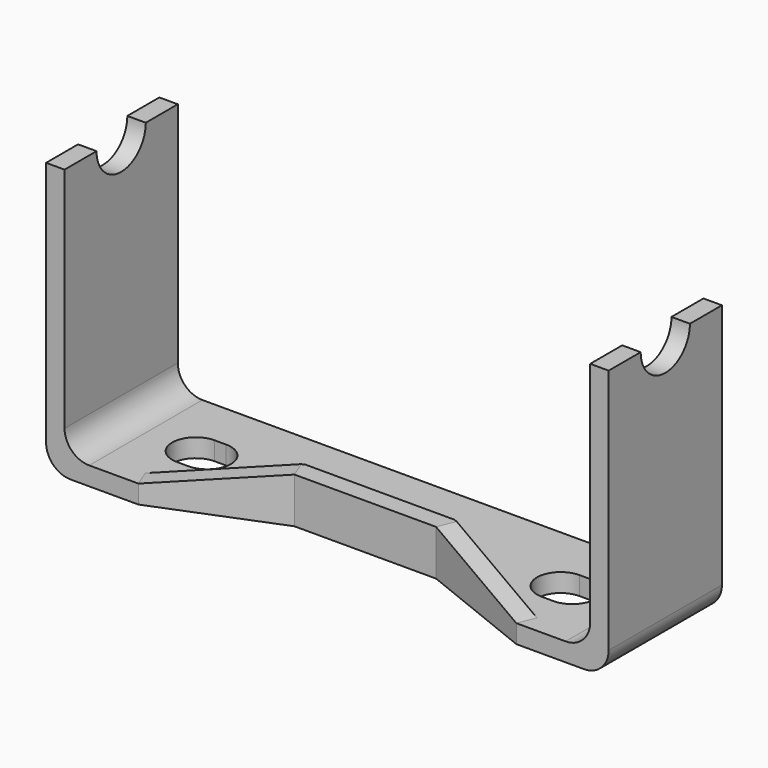
from build123d import *

# Parameters (mm, degrees)
F0_W      = 58.039
F0_H      = 14.605
F1_DEPTH  = 1.905
F2_W      = 1.905
F2_H      = 14.605
F3_DEPTH  = 26.035
F4_R      = 2.54
F6_DEPTH  = 58.04
F8_DEPTH  = 1.905
F10_DEPTH = 1.905
F12_DEPTH = 2.794
F14_DEPTH = 1.905
F16_DEPTH = 1.905


with BuildPart() as f1:
    # F0 (on Top) → F1 (new body)
    with BuildSketch(Plane.XY):
        Rectangle(F0_W, F0_H)
    extrude(amount=F1_DEPTH)

    # F2 (on face) → F3 (join)
    with BuildSketch(Plane.XY.offset(1.905)):
        with Locations((-28.067, 0)):
            Rectangle(F2_W, F2_H)
        with Locations((28.067, 0)):
            Rectangle(F2_W, F2_H)
    extrude(amount=F3_DEPTH)

    # F4
    f4_edges = [f1.edges().sort_by_distance(p)[0] for p in [
        (-29.0195, 0, 0),
        (29.0195, 0, 0),
        (27.1145, 0, 1.905),
        (-27.1145, 0, 1.905),
    ]]
    fillet(f4_edges, radius=F4_R)

    # F5 (on face) → F6 (cut, through all)
    with BuildSketch(Plane(origin=(-29.0195, 0, 0), x_dir=(0, -1, 0), z_dir=(-1, 0, 0))):
        with BuildLine():
            Line((3.175, 27.94), (-3.175, 27.94))
            ThreePointArc((-3.175, 27.94), (0, 24.765), (3.175, 27.94))
        make_face()
    extrude(amount=-F6_DEPTH, mode=Mode.SUBTRACT)

    # F7 (on face) → F8 (cut, through all)
    with BuildSketch(Plane.XY.offset(1.905)):
        with BuildLine():
            Line((-18.2245, 2.4257), (-19.4183, 2.4257))
            ThreePointArc((-19.4183, 2.4257), (-21.844, 0), (-19.4183, -2.4257))
            Line((-19.4183, -2.4257), (-18.2245, -2.4257))
            ThreePointArc((-18.2245, -2.4257), (-15.7988, 0), (-18.2245, 2.4257))
        make_face()
        with BuildLine():
            Line((19.4183, 2.4257), (18.2245, 2.4257))
            ThreePointArc((18.2245, 2.4257), (15.7988, 0), (18.2245, -2.4257))
            Line((18.2245, -2.4257), (19.4183, -2.4257))
            ThreePointArc((19.4183, -2.4257), (21.844, 0), (19.4183, 2.4257))
        make_face()
    extrude(amount=-F8_DEPTH, mode=Mode.SUBTRACT)

    # F9 (on face) → F10 (cut, through all)
    with BuildSketch(Plane.XY.offset(1.905)):
        Polygon((-7.3025, -2.413), (-19.4945, -7.3025), (19.4945, -7.3025), (7.3025, -2.413), align=None)
    extrude(amount=-F10_DEPTH, mode=Mode.SUBTRACT)

    # F11 (on face) → F12 (join)
    with BuildSketch(Plane.XY.offset(1.905)):
        Polygon((-20.2035866979, -5.5343877143), (-19.4945, -7.3025), (-7.3025, -2.413), (7.3025, -2.413), (19.4945, -7.3025), (20.2035866979, -5.5343877143), (7.6702562934, -0.508), (-7.6702562934, -0.508), align=None)
    extrude(amount=F12_DEPTH)

    # F13 (on face) → F14 (cut, through all)
    with BuildSketch(Plane(origin=(-0.1781303134, 0.4441690931, 0), x_dir=(0.9281429321, 0.3722239884, 0), z_dir=(0.3722239884, -0.9281429321, 0))):
        Polygon((-20.8118480657, 4.699), (-20.8118480657, 1.905), (-7.6759402459, 4.699), align=None)
    extrude(amount=-F14_DEPTH, mode=Mode.SUBTRACT)

    # F15 (on face) → F16 (cut, through all)
    with BuildSketch(Plane(origin=(0.1781303134, 0.4441690931, 0), x_dir=(0.9281429321, -0.3722239884, 0), z_dir=(-0.3722239884, -0.9281429321, 0))):
        Polygon((7.6759402459, 4.699), (20.8118480657, 1.905), (20.8118480657, 4.699), align=None)
    extrude(amount=-F16_DEPTH, mode=Mode.SUBTRACT)


solid = f1.part
